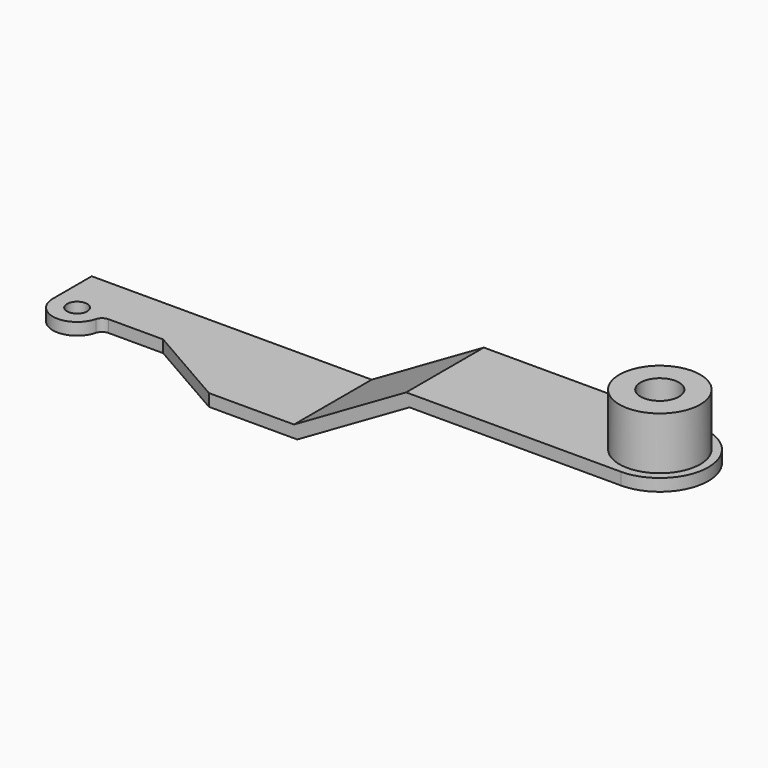
from build123d import *

# Parameters (mm, degrees)
F0_R          = 7.9375
F1_DEPTH      = 9.525
F1_DEPTH_BACK = 50.8
F2_R          = 31.75
F3_DEPTH      = 41.275
F4_R          = 15.08125
F5_DEPTH      = 101.601
F7_DEPTH      = 76.201


with BuildPart() as f1:
    # F0 (on Top) → F1 (new body, two sides)
    with BuildSketch(Plane.XY) as f1_sk:
        with BuildLine():
            Line((-323.28922, -38.1), (0, -38.1))
            ThreePointArc((0, -38.1), (38.1, 0), (0, 38.1))
            Line((0, 38.1), (-476.25, 38.1))
            Line((-476.25, 38.1), (-476.25, 0))
            ThreePointArc((-476.25, 0), (-459.600382, -18.898166), (-438.754917, -4.7625))
            ThreePointArc((-438.754917, -4.7625), (-436.495121, -1.329884), (-432.606556, 0))
            Line((-432.606556, 0), (-389.728606, 0))
            Line((-389.728606, 0), (-323.331395, -38.075815))
            Line((-323.331395, -38.075815), (-323.28922, -38.1))
        make_face()
        with Locations((-457.2, 0)):
            Circle(F0_R, mode=Mode.SUBTRACT)
        Polygon((-323.331266, -38.1), (-323.28922, -38.1), (-323.331395, -38.075815), align=None)
    extrude(amount=F1_DEPTH)
    extrude(f1_sk.sketch, amount=-F1_DEPTH_BACK)

    # F2 (on face) → F3 (join)
    with BuildSketch(Plane.XY.offset(9.525)):
        Circle(F2_R)
    extrude(amount=F3_DEPTH)

    # F4 (on face) → F5 (cut, through all)
    with BuildSketch(Plane.XY.offset(50.8)):
        Circle(F4_R)
    extrude(amount=-F5_DEPTH, mode=Mode.SUBTRACT)

    # F6 (on face) → F7 (cut, through all)
    with BuildSketch(Plane(origin=(0, 38.1, 0), x_dir=(-1, 0, 0), z_dir=(0, 1, 0))):
        Polygon((-101.6, -50.8), (254, -50.8), (166.011819, 0), (-101.6, 0), align=None)
        Polygon((524.164035, 9.525), (168.564035, 9.525), (256.552216, -41.275), (524.164035, -41.275), align=None)
    extrude(amount=-F7_DEPTH, mode=Mode.SUBTRACT)


solid = f1.part
